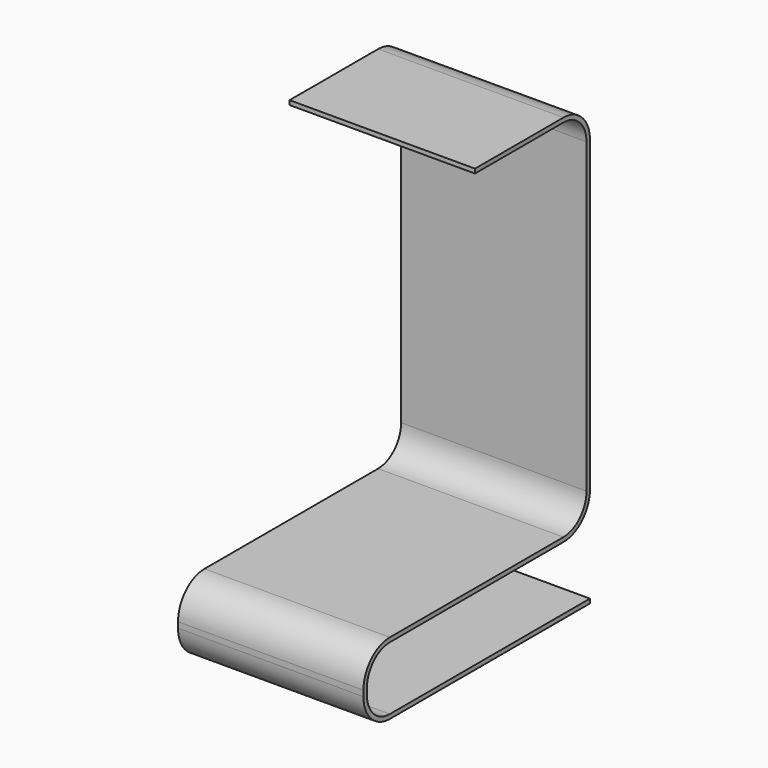
from build123d import *

# Parameters (mm, degrees)
F1_DEPTH = 64.5


with BuildPart() as f1:
    # F0 (on Right) → F1 (new body, symmetric)
    with BuildSketch(Plane.YZ):
        with BuildLine():
            Line((-77, 47), (74, 47))
            ThreePointArc((74, 47), (90.263456, 53.736544), (97, 70))
            Line((97, 70), (97, 284))
            ThreePointArc((97, 284), (90.263456, 300.263456), (74, 307))
            Line((74, 307), (-3, 307))
            Line((-3, 307), (-3, 304))
            Line((-3, 304), (74, 304))
            ThreePointArc((74, 304), (88.142136, 298.142136), (94, 284))
            Line((94, 284), (94, 70))
            ThreePointArc((94, 70), (88.142136, 55.857864), (74, 50))
            Line((74, 50), (-77, 50))
            ThreePointArc((-77, 50), (-93.263456, 43.263456), (-100, 27))
            Line((-100, 27), (-100, 23))
            ThreePointArc((-100, 23), (-93.263456, 6.736544), (-77, 0))
            Line((-77, 0), (97, 0))
            Line((97, 0), (97, 3))
            Line((97, 3), (-77, 3))
            ThreePointArc((-77, 3), (-91.142136, 8.857864), (-97, 23))
            Line((-97, 23), (-97, 27))
            ThreePointArc((-97, 27), (-91.142136, 41.142136), (-77, 47))
        make_face()
    extrude(amount=F1_DEPTH, both=True)


solid = f1.part
